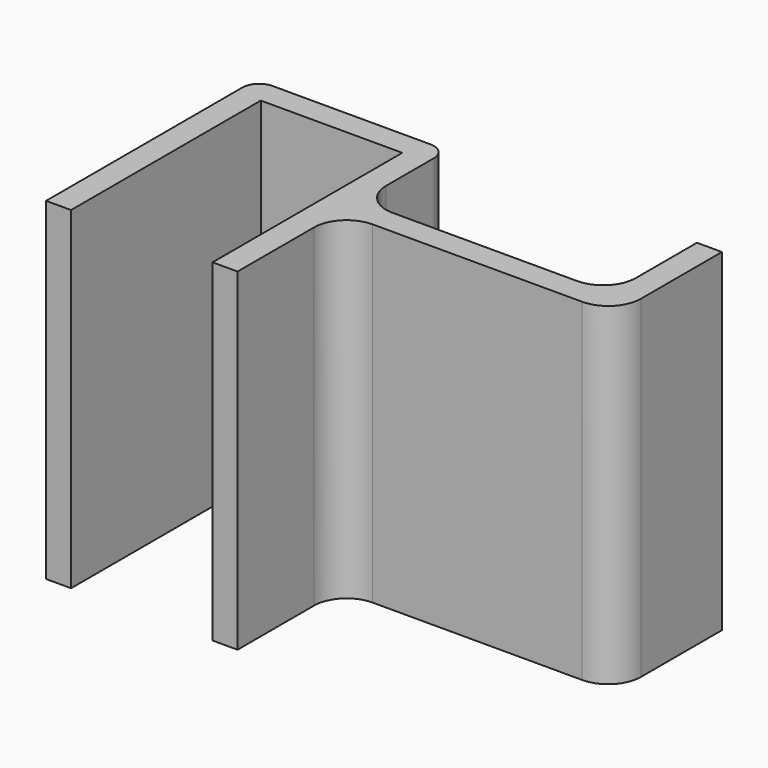
from build123d import *

# Parameters (mm, degrees)
F1_DEPTH = 40


with BuildPart() as f1:
    # F0 (on Top) → F1 (new body)
    with BuildSketch(Plane.XY):
        with BuildLine():
            Line((-53.125022, 11.088087), (-53.125022, -18.398343))
            Line((-53.125022, -18.398343), (-50.125022, -18.398343))
            Line((-50.125022, -18.398343), (-50.125022, 10.088087))
            Line((-50.125022, 10.088087), (-33.125022, 10.088087))
            Line((-33.125022, 10.088087), (-33.125022, -18.398343))
            Line((-33.125022, -18.398343), (-30.125022, -18.398343))
            Line((-30.125022, -18.398343), (-30.125022, -6.91192))
            ThreePointArc((-30.125022, -6.91192), (-28.979248, -4.145776), (-26.213104, -3.000001))
            Line((-26.213104, -3.000001), (-1.036941, -3.000001))
            ThreePointArc((-1.036941, -3.000001), (1.729203, -1.854227), (2.874978, 0.911917))
            Line((2.874978, 0.911917), (2.874978, 13.088087))
            Line((2.874978, 13.088087), (-0.125022, 13.088087))
            Line((-0.125022, 13.088087), (-0.125022, 3.911919))
            ThreePointArc((-0.125022, 3.911919), (-1.270797, 1.145774), (-4.036941, 0))
            Line((-4.036941, 0), (-26.213104, 0))
            ThreePointArc((-26.213104, 0), (-28.979248, 1.145774), (-30.125022, 3.911919))
            Line((-30.125022, 3.911919), (-30.125022, 11.088087))
            ThreePointArc((-30.125022, 11.088087), (-30.710809, 12.5023), (-32.125022, 13.088087))
            Line((-32.125022, 13.088087), (-51.125022, 13.088087))
            ThreePointArc((-51.125022, 13.088087), (-52.539236, 12.5023), (-53.125022, 11.088087))
        make_face()
    extrude(amount=F1_DEPTH)


solid = f1.part
